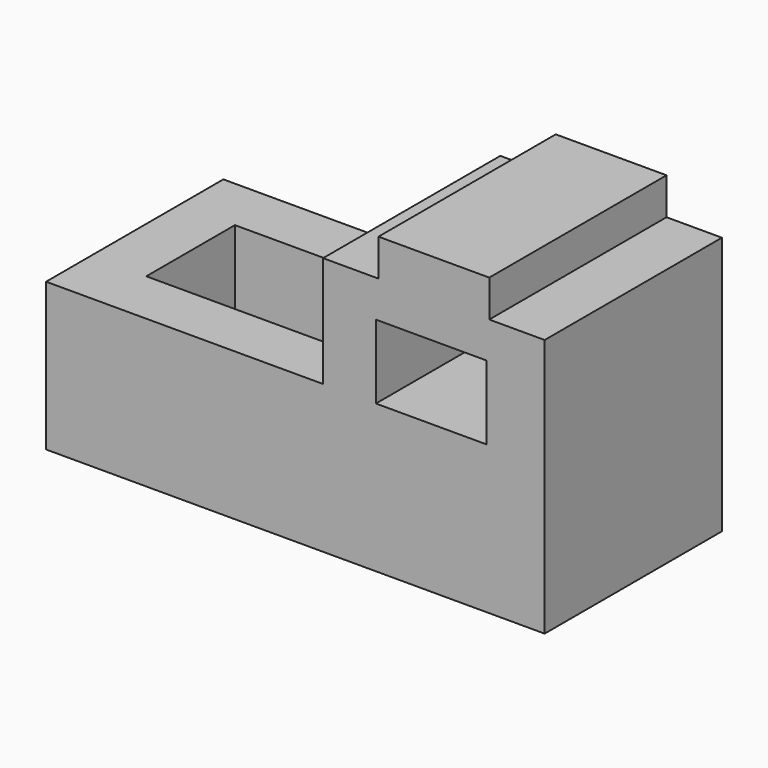
from build123d import *

# Parameters (mm, degrees)
F0_W     = 24
F0_H     = 16
F1_DEPTH = 48
F2_W     = 48
F2_H     = 24
F3_DEPTH = 24


with BuildPart() as f1:
    # F0 (on Front) → F1 (new body)
    with BuildSketch(Plane.XZ):
        Polygon((-53.625001, 32), (-53.625001, 0), (54.374999, 0), (54.374999, 56), (42.374999, 56), (42.374999, 64), (18.374999, 64), (18.374999, 56), (6.374999, 56), (6.374999, 32), align=None)
        with Locations((29.824011, 40)):
            Rectangle(F0_W, F0_H, mode=Mode.SUBTRACT)
    extrude(amount=F1_DEPTH)

    # F2 (on face) → F3 (cut)
    with BuildSketch(Plane.XY.offset(32)):
        with Locations((-17.625001, -23.866339)):
            Rectangle(F2_W, F2_H)
    extrude(amount=-F3_DEPTH, mode=Mode.SUBTRACT)


solid = f1.part
